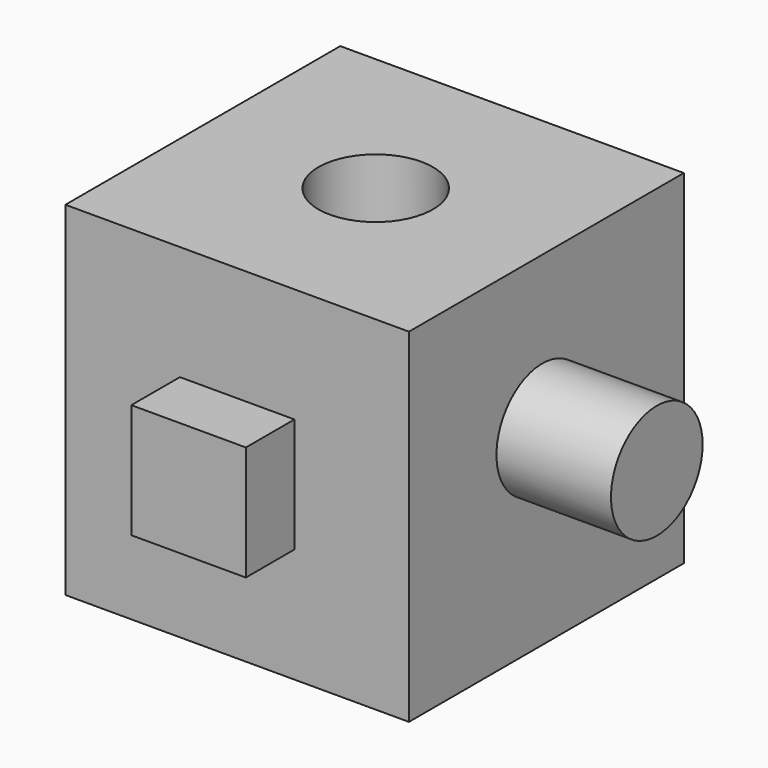
from build123d import *

# Parameters (mm, degrees)
F0_W     = 76.2
F0_H     = 76.2
F1_DEPTH = 76.2
F3_D     = 25.4
F4_W     = 25.4
F4_H     = 25.4
F5_DEPTH = 13.462
F6_R     = 12.7
F7_DEPTH = 25.4
F8_DEPTH = 25.4


with BuildPart() as f1:
    # F0 (on Front) → F1 (new body)
    with BuildSketch(Plane.XZ):
        with Locations((-73.797528, -29.481855)):
            Rectangle(F0_W, F0_H)
    extrude(amount=F1_DEPTH)

    # F3 (through all)
    with Locations(Plane.XY.offset(8.618145)):
        with Locations((-73.797528, -37.791912)):
            Hole(F3_D / 2)

    # F4 (on face) → F5 (join)
    with BuildSketch(Plane.XZ.offset(76.2)):
        with Locations((-73.797528, -29.481855)):
            Rectangle(F4_W, F4_H)
    extrude(amount=F5_DEPTH)

    # F6 (on face) → F7 (join)
    with BuildSketch(Plane.YZ.offset(-35.697528)):
        with Locations((-39.237883, -25.310718)):
            Circle(F6_R)
    extrude(amount=F7_DEPTH)

    # F6 (on face) → F8 (join)
    with BuildSketch(Plane.YZ.offset(-35.697528)):
        with Locations((-39.237883, -25.310718)):
            Circle(F6_R)
    extrude(amount=F8_DEPTH)


solid = f1.part
